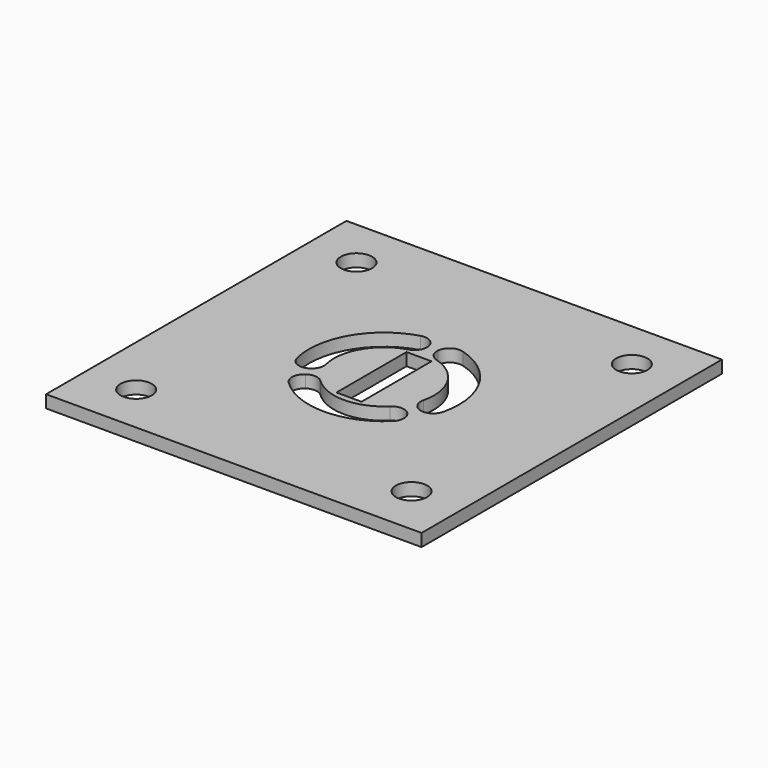
from build123d import *

# Parameters (mm, degrees)
F0_W     = 38.1
F0_H     = 38.1
F1_DEPTH = 1.27
F3_DEPTH = 25.4
F4_R     = 1.5875
F4_W     = 2.54
F4_H     = 8.89
F5_DEPTH = 25.4


with BuildPart() as f1:
    # F0 (on Top) → F1 (new body)
    with BuildSketch(Plane.XY):
        Rectangle(F0_W, F0_H)
    extrude(amount=F1_DEPTH)

    # F2 (on Top) → F3 (cut)
    with BuildSketch(Plane.XY):
        with BuildLine():
            ThreePointArc((-0.518475, 6.200063), (-1.065611, 7.141481), (-2.14087, 7.313076))
            ThreePointArc((-2.14087, 7.313076), (-6.590117, 3.82554), (-7.412157, -1.767578))
            ThreePointArc((-7.412157, -1.767578), (-6.729914, -2.616206), (-5.641081, -2.624462))
            ThreePointArc((-5.641081, -2.624462), (-5.033573, -2.026098), (-4.941438, -1.178385))
            ThreePointArc((-4.941438, -1.178385), (-4.393411, 2.55036), (-1.427246, 4.875384))
            ThreePointArc((-1.427246, 4.875384), (-0.736807, 5.375783), (-0.518475, 6.200063))
        make_face()
        with BuildLine():
            ThreePointArc((5.641081, -2.624462), (6.729914, -2.616206), (7.412157, -1.767578))
            ThreePointArc((7.412157, -1.767578), (6.590117, 3.82554), (2.14087, 7.313076))
            ThreePointArc((2.14087, 7.313076), (1.065611, 7.141481), (0.518475, 6.200063))
            ThreePointArc((0.518475, 6.200063), (0.736807, 5.375783), (1.427246, 4.875384))
            ThreePointArc((1.427246, 4.875384), (4.393411, 2.55036), (4.941438, -1.178385))
            ThreePointArc((4.941438, -1.178385), (5.033573, -2.026098), (5.641081, -2.624462))
        make_face()
        with BuildLine():
            ThreePointArc((-5.126844, -3.524921), (-5.673013, -4.4669), (-5.288787, -5.485721))
            ThreePointArc((-5.288787, -5.485721), (0, -7.62), (5.288787, -5.485721))
            ThreePointArc((5.288787, -5.485721), (5.673013, -4.4669), (5.126844, -3.524921))
            ThreePointArc((5.126844, -3.524921), (4.302789, -3.305743), (3.525858, -3.657147))
            ThreePointArc((3.525858, -3.657147), (0, -5.08), (-3.525858, -3.657147))
            ThreePointArc((-3.525858, -3.657147), (-4.302789, -3.305743), (-5.126844, -3.524921))
        make_face()
    extrude(amount=F3_DEPTH, mode=Mode.SUBTRACT)

    # F4 (on Top) → F5 (cut)
    with BuildSketch(Plane.XY):
        with Locations((13.97, 13.97)):
            Circle(F4_R)
        with Locations((13.97, -13.97)):
            Circle(F4_R)
        with Locations((-13.97, -13.97)):
            Circle(F4_R)
        with Locations((-13.97, 13.97)):
            Circle(F4_R)
        Rectangle(F4_W, F4_H)
    extrude(amount=F5_DEPTH, mode=Mode.SUBTRACT)


solid = f1.part
